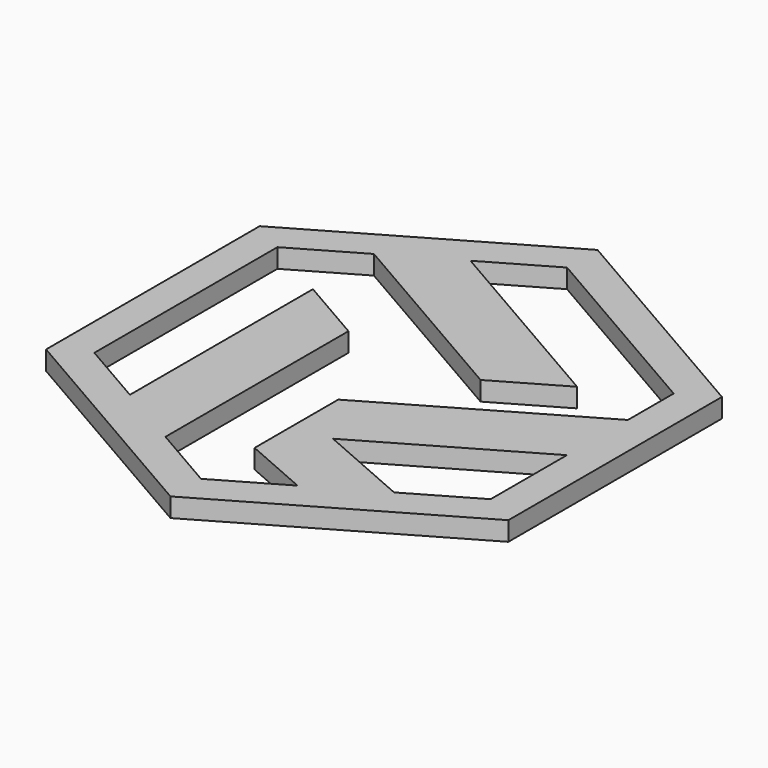
from build123d import *

# Parameters (mm, degrees)
PAD_DEPTH = 5


with BuildPart() as part:
    # Sketch → Pad (new body)
    with BuildSketch(Plane.XY):
        Polygon((60.621778, 35), (0, 70), (-60.621778, 35), (-60.621778, -35), (0, -70), (60.621778, -35), align=None)
        Polygon((-17.320508, 50), (34.641016, 20), (17.320508, 10), (-34.641016, 40), (-51.961524, 30), (-51.961524, -30), (-34.641016, -40), (-34.641016, 20), (-17.320508, 10), (-17.320508, -50), (0, -60), (17.320508, -50), (0, -42.427157), (0, -15), (51.961524, 15), (51.961524, 30), (0, 60), align=None, mode=Mode.SUBTRACT)
        Polygon((51.961524, -5), (10, -29.226497), (34.641016, -40), (51.961524, -30), align=None, mode=Mode.SUBTRACT)
    extrude(amount=PAD_DEPTH)


solid = part.part
